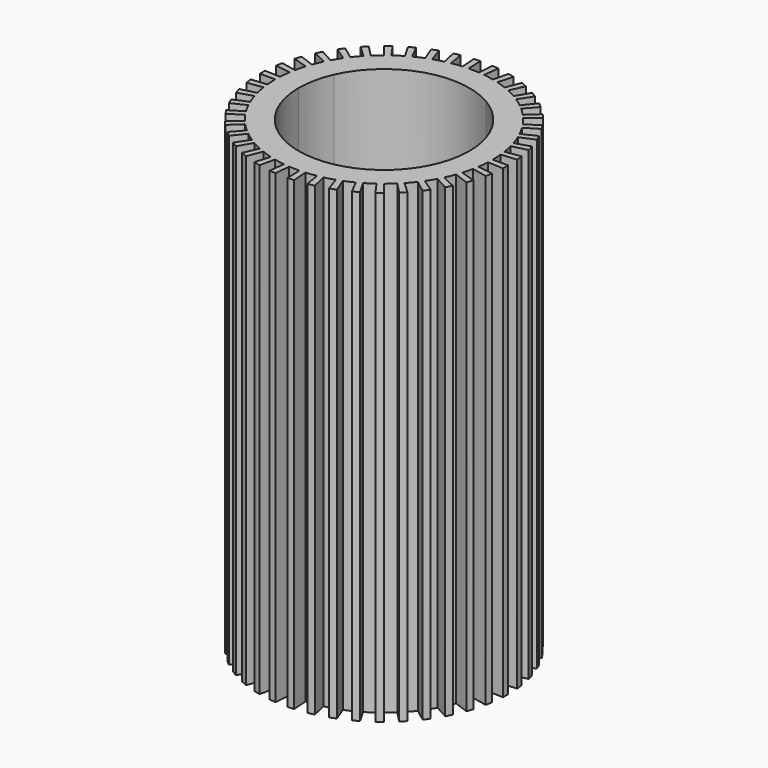
from build123d import *

# Parameters (mm, degrees)
F1_DEPTH = 1.5
F2_DEPTH = 30
F3_DEPTH = 10
F4_DEPTH = 10
F5_DEPTH = 1.5


with BuildPart() as f1:
    # F0 (on Top) → F1 (new body)
    with BuildSketch(Plane.XY):
        with BuildLine():
            ThreePointArc((-5.5, 0), (-3.680218, -4.087297), (0.574907, -5.46987))
            Line((0.574907, -5.46987), (0.313585, -2.983566))
            ThreePointArc((0.313585, -2.983566), (-2.007392, -2.229434), (-3, 0))
            Line((-3, 0), (-5.5, 0))
        make_face()
        with BuildLine():
            Line((-2.740636, 1.22021), (-5.0245, 2.237052))
            ThreePointArc((-5.0245, 2.237052), (-5.379812, 1.143514), (-5.5, 0))
            Line((-5.5, 0), (-3, 0))
            ThreePointArc((-3, 0), (-2.934443, 0.623735), (-2.740636, 1.22021))
        make_face()
        with BuildLine():
            Line((1.5, 2.598076), (2.75, 4.76314))
            ThreePointArc((2.75, 4.76314), (-1.699593, 5.230811), (-5.0245, 2.237052))
            Line((-5.0245, 2.237052), (-2.740636, 1.22021))
            ThreePointArc((-2.740636, 1.22021), (-0.927051, 2.85317), (1.5, 2.598076))
        make_face()
        with BuildLine():
            Line((2.427051, 1.763356), (4.449593, 3.232819))
            ThreePointArc((4.449593, 3.232819), (3.680218, 4.087297), (2.75, 4.76314))
            Line((2.75, 4.76314), (1.5, 2.598076))
            ThreePointArc((1.5, 2.598076), (2.007392, 2.229434), (2.427051, 1.763356))
        make_face()
        with BuildLine():
            ThreePointArc((2.75, -4.76314), (4.76314, -2.75), (5.5, 0))
            ThreePointArc((5.5, 0), (5.230811, 1.699593), (4.449593, 3.232819))
            Line((4.449593, 3.232819), (2.427051, 1.763356))
            ThreePointArc((2.427051, 1.763356), (2.85317, 0.927051), (3, 0))
            ThreePointArc((3, 0), (2.598076, -1.5), (1.5, -2.598076))
            Line((1.5, -2.598076), (2.75, -4.76314))
        make_face()
        with BuildLine():
            ThreePointArc((0.574907, -5.46987), (1.699593, -5.230811), (2.75, -4.76314))
            Line((2.75, -4.76314), (1.5, -2.598076))
            ThreePointArc((1.5, -2.598076), (0.927051, -2.85317), (0.313585, -2.983566))
            Line((0.313585, -2.983566), (0.574907, -5.46987))
        make_face()
    extrude(amount=F1_DEPTH)

    # F0 (on Top) → F2 (join)
    with BuildSketch(Plane.XY):
        with BuildLine():
            ThreePointArc((6.990407, -0.366352), (6.997601, -0.183239), (7, 0))
            ThreePointArc((7, 0), (6.991728, 0.340205), (6.966932, 0.679606))
            ThreePointArc((6.966932, 0.679606), (6.946754, 0.861746), (6.921816, 1.043296))
            ThreePointArc((6.921816, 1.043296), (6.862931, 1.378468), (6.787827, 1.710383))
            ThreePointArc((6.787827, 1.710383), (6.740728, 1.887481), (6.68901, 2.063286))
            ThreePointArc((6.68901, 2.063286), (6.580828, 2.385939), (6.457093, 2.702952))
            ThreePointArc((6.457093, 2.702952), (6.384125, 2.871053), (6.306782, 3.037186))
            ThreePointArc((6.306782, 3.037186), (6.15172, 3.340111), (5.982118, 3.635142))
            ThreePointArc((5.982118, 3.635142), (5.884912, 3.79049), (5.783671, 3.94324))
            ThreePointArc((5.783671, 3.94324), (5.585192, 4.219671), (5.373513, 4.486129))
            ThreePointArc((5.373513, 4.486129), (5.254239, 4.625254), (5.131363, 4.761209))
            ThreePointArc((5.131363, 4.761209), (4.893901, 5.004971), (4.644873, 5.236904))
            ThreePointArc((4.644873, 5.236904), (4.506195, 5.356698), (4.364429, 5.47282))
            ThreePointArc((4.364429, 5.47282), (4.093288, 5.678468), (3.812473, 5.870694))
            ThreePointArc((3.812473, 5.870694), (3.65749, 5.968481), (3.5, 6.062178))
            ThreePointArc((3.5, 6.062178), (3.201238, 6.225117), (2.89491, 6.373343))
            ThreePointArc((2.89491, 6.373343), (2.727083, 6.446939), (2.557387, 6.516116))
            ThreePointArc((2.557387, 6.516116), (2.237677, 6.632707), (1.912678, 6.733622))
            ThreePointArc((1.912678, 6.733622), (1.735757, 6.781382), (1.557647, 6.824495))
            ThreePointArc((1.557647, 6.824495), (1.22413, 6.892134), (0.887721, 6.943483))
            ThreePointArc((0.887721, 6.943483), (0.705658, 6.964341), (0.523111, 6.980427))
            ThreePointArc((0.523111, 6.980427), (0.183239, 6.997601), (-0.157066, 6.998238))
            ThreePointArc((-0.157066, 6.998238), (-0.340205, 6.991728), (-0.523111, 6.980427))
            ThreePointArc((-0.523111, 6.980427), (-0.861746, 6.946754), (-1.198345, 6.896664))
            ThreePointArc((-1.198345, 6.896664), (-1.378468, 6.862931), (-1.557647, 6.824495))
            ThreePointArc((-1.557647, 6.824495), (-1.887481, 6.740728), (-2.212855, 6.641029))
            ThreePointArc((-2.212855, 6.641029), (-2.385939, 6.580828), (-2.557387, 6.516116))
            ThreePointArc((-2.557387, 6.516116), (-2.871053, 6.384125), (-3.177933, 6.237046))
            ThreePointArc((-3.177933, 6.237046), (-3.340111, 6.15172), (-3.5, 6.062178))
            ThreePointArc((-3.5, 6.062178), (-3.79049, 5.884912), (-4.072022, 5.693737))
            ThreePointArc((-4.072022, 5.693737), (-4.219671, 5.585192), (-4.364429, 5.47282))
            ThreePointArc((-4.364429, 5.47282), (-4.625254, 5.254239), (-4.875148, 5.023239))
            ThreePointArc((-4.875148, 5.023239), (-5.004971, 4.893901), (-5.131363, 4.761209))
            ThreePointArc((-5.131363, 4.761209), (-5.356698, 4.506195), (-5.569372, 4.24053))
            ThreePointArc((-5.569372, 4.24053), (-5.678468, 4.093288), (-5.783671, 3.94324))
            ThreePointArc((-5.783671, 3.94324), (-5.968481, 3.65749), (-6.139185, 3.363095))
            ThreePointArc((-6.139185, 3.363095), (-6.225117, 3.201238), (-6.306782, 3.037186))
            ThreePointArc((-6.306782, 3.037186), (-6.446939, 2.727083), (-6.571859, 2.410534))
            ThreePointArc((-6.571859, 2.410534), (-6.632707, 2.237677), (-6.68901, 2.063286))
            ThreePointArc((-6.68901, 2.063286), (-6.781382, 1.735757), (-6.857728, 1.404126))
            ThreePointArc((-6.857728, 1.404126), (-6.892134, 1.22413), (-6.921816, 1.043296))
            ThreePointArc((-6.921816, 1.043296), (-6.964341, 0.705658), (-6.990407, 0.366352))
            ThreePointArc((-6.990407, 0.366352), (-6.997601, 0.183239), (-7, 0))
            ThreePointArc((-7, 0), (-6.991728, -0.340205), (-6.966932, -0.679606))
            ThreePointArc((-6.966932, -0.679606), (-6.946754, -0.861746), (-6.921816, -1.043296))
            ThreePointArc((-6.921816, -1.043296), (-6.862931, -1.378468), (-6.787827, -1.710383))
            ThreePointArc((-6.787827, -1.710383), (-6.740728, -1.887481), (-6.68901, -2.063286))
            ThreePointArc((-6.68901, -2.063286), (-6.580828, -2.385939), (-6.457093, -2.702952))
            ThreePointArc((-6.457093, -2.702952), (-6.384125, -2.871053), (-6.306782, -3.037186))
            ThreePointArc((-6.306782, -3.037186), (-6.15172, -3.340111), (-5.982118, -3.635142))
            ThreePointArc((-5.982118, -3.635142), (-5.884912, -3.79049), (-5.783671, -3.94324))
            ThreePointArc((-5.783671, -3.94324), (-5.585192, -4.219671), (-5.373513, -4.486129))
            ThreePointArc((-5.373513, -4.486129), (-5.254239, -4.625254), (-5.131363, -4.761209))
            ThreePointArc((-5.131363, -4.761209), (-4.893901, -5.004971), (-4.644873, -5.236904))
            ThreePointArc((-4.644873, -5.236904), (-4.506195, -5.356698), (-4.364429, -5.47282))
            ThreePointArc((-4.364429, -5.47282), (-4.093288, -5.678468), (-3.812473, -5.870694))
            ThreePointArc((-3.812473, -5.870694), (-3.65749, -5.968481), (-3.5, -6.062178))
            ThreePointArc((-3.5, -6.062178), (-3.201238, -6.225117), (-2.89491, -6.373343))
            ThreePointArc((-2.89491, -6.373343), (-2.727083, -6.446939), (-2.557387, -6.516116))
            ThreePointArc((-2.557387, -6.516116), (-2.237677, -6.632707), (-1.912678, -6.733622))
            ThreePointArc((-1.912678, -6.733622), (-1.735757, -6.781382), (-1.557647, -6.824495))
            ThreePointArc((-1.557647, -6.824495), (-1.22413, -6.892134), (-0.887721, -6.943483))
            ThreePointArc((-0.887721, -6.943483), (-0.705658, -6.964341), (-0.523111, -6.980427))
            ThreePointArc((-0.523111, -6.980427), (-0.183239, -6.997601), (0.157066, -6.998238))
            ThreePointArc((0.157066, -6.998238), (0.340205, -6.991728), (0.523111, -6.980427))
            ThreePointArc((0.523111, -6.980427), (0.861746, -6.946754), (1.198345, -6.896664))
            ThreePointArc((1.198345, -6.896664), (1.378468, -6.862931), (1.557647, -6.824495))
            ThreePointArc((1.557647, -6.824495), (1.887481, -6.740728), (2.212855, -6.641029))
            ThreePointArc((2.212855, -6.641029), (2.385939, -6.580828), (2.557387, -6.516116))
            ThreePointArc((2.557387, -6.516116), (2.871053, -6.384125), (3.177933, -6.237046))
            ThreePointArc((3.177933, -6.237046), (3.340111, -6.15172), (3.5, -6.062178))
            ThreePointArc((3.5, -6.062178), (3.79049, -5.884912), (4.072022, -5.693737))
            ThreePointArc((4.072022, -5.693737), (4.219671, -5.585192), (4.364429, -5.47282))
            ThreePointArc((4.364429, -5.47282), (4.625254, -5.254239), (4.875148, -5.023239))
            ThreePointArc((4.875148, -5.023239), (5.004971, -4.893901), (5.131363, -4.761209))
            ThreePointArc((5.131363, -4.761209), (5.356698, -4.506195), (5.569372, -4.24053))
            ThreePointArc((5.569372, -4.24053), (5.678468, -4.093288), (5.783671, -3.94324))
            ThreePointArc((5.783671, -3.94324), (5.968481, -3.65749), (6.139185, -3.363095))
            ThreePointArc((6.139185, -3.363095), (6.225117, -3.201238), (6.306782, -3.037186))
            ThreePointArc((6.306782, -3.037186), (6.446939, -2.727083), (6.571859, -2.410534))
            ThreePointArc((6.571859, -2.410534), (6.632707, -2.237677), (6.68901, -2.063286))
            ThreePointArc((6.68901, -2.063286), (6.781382, -1.735757), (6.857728, -1.404126))
            ThreePointArc((6.857728, -1.404126), (6.892134, -1.22413), (6.921816, -1.043296))
            ThreePointArc((6.921816, -1.043296), (6.964341, -0.705658), (6.990407, -0.366352))
        make_face()
        with BuildLine():
            ThreePointArc((4.449593, 3.232819), (5.230811, 1.699593), (5.5, 0))
            ThreePointArc((5.5, 0), (4.76314, -2.75), (2.75, -4.76314))
            ThreePointArc((2.75, -4.76314), (1.699593, -5.230811), (0.574907, -5.46987))
            ThreePointArc((0.574907, -5.46987), (-3.680218, -4.087297), (-5.5, 0))
            ThreePointArc((-5.5, 0), (-5.379812, 1.143514), (-5.0245, 2.237052))
            ThreePointArc((-5.0245, 2.237052), (-1.699593, 5.230811), (2.75, 4.76314))
            ThreePointArc((2.75, 4.76314), (3.680218, 4.087297), (4.449593, 3.232819))
        make_face(mode=Mode.SUBTRACT)
        with BuildLine():
            ThreePointArc((-5.783671, 3.94324), (-5.678468, 4.093288), (-5.569372, 4.24053))
            Line((-5.569372, 4.24053), (-6.364996, 4.84632))
            ThreePointArc((-6.364996, 4.84632), (-6.489677, 4.678043), (-6.60991, 4.50656))
            Line((-6.60991, 4.50656), (-5.783671, 3.94324))
        make_face()
        with BuildLine():
            ThreePointArc((-5.131363, 4.761209), (-5.004971, 4.893901), (-4.875148, 5.023239))
            Line((-4.875148, 5.023239), (-5.571598, 5.740844))
            ThreePointArc((-5.571598, 5.740844), (-5.719967, 5.59303), (-5.864415, 5.441382))
            Line((-5.864415, 5.441382), (-5.131363, 4.761209))
        make_face()
        with BuildLine():
            ThreePointArc((-4.364429, 5.47282), (-4.219671, 5.585192), (-4.072022, 5.693737))
            Line((-4.072022, 5.693737), (-4.653739, 6.507128))
            ThreePointArc((-4.653739, 6.507128), (-4.822481, 6.383077), (-4.987918, 6.254652))
            Line((-4.987918, 6.254652), (-4.364429, 5.47282))
        make_face()
        with BuildLine():
            ThreePointArc((-3.5, 6.062178), (-3.340111, 6.15172), (-3.177933, 6.237046))
            Line((-3.177933, 6.237046), (-3.631924, 7.128052))
            ThreePointArc((-3.631924, 7.128052), (-3.81727, 7.030537), (-4, 6.928203))
            Line((-4, 6.928203), (-3.5, 6.062178))
        make_face()
        with BuildLine():
            ThreePointArc((-2.557387, 6.516116), (-2.385939, 6.580828), (-2.212855, 6.641029))
            Line((-2.212855, 6.641029), (-2.528977, 7.589748))
            ThreePointArc((-2.528977, 7.589748), (-2.726787, 7.520946), (-2.922728, 7.44699))
            Line((-2.922728, 7.44699), (-2.557387, 6.516116))
        make_face()
        with BuildLine():
            ThreePointArc((-1.557647, 6.824495), (-1.378468, 6.862931), (-1.198345, 6.896664))
            Line((-1.198345, 6.896664), (-1.369538, 7.881901))
            ThreePointArc((-1.369538, 7.881901), (-1.575392, 7.84335), (-1.780167, 7.799423))
            Line((-1.780167, 7.799423), (-1.557647, 6.824495))
        make_face()
        with BuildLine():
            ThreePointArc((-0.523111, 6.980427), (-0.340205, 6.991728), (-0.157066, 6.998238))
            Line((-0.157066, 6.998238), (-0.179505, 7.997986))
            ThreePointArc((-0.179505, 7.997986), (-0.388806, 7.990546), (-0.597841, 7.97763))
            Line((-0.597841, 7.97763), (-0.523111, 6.980427))
        make_face()
        with BuildLine():
            ThreePointArc((0.523111, 6.980427), (0.705658, 6.964341), (0.887721, 6.943483))
            Line((0.887721, 6.943483), (1.014538, 7.935409))
            ThreePointArc((1.014538, 7.935409), (0.806466, 7.959247), (0.597841, 7.97763))
            Line((0.597841, 7.97763), (0.523111, 6.980427))
        make_face()
        with BuildLine():
            ThreePointArc((1.557647, 6.824495), (1.735757, 6.781382), (1.912678, 6.733622))
            Line((1.912678, 6.733622), (2.185918, 7.695568))
            ThreePointArc((2.185918, 7.695568), (1.983723, 7.750151), (1.780167, 7.799423))
            Line((1.780167, 7.799423), (1.557647, 6.824495))
        make_face()
        with BuildLine():
            ThreePointArc((2.557387, 6.516116), (2.727083, 6.446939), (2.89491, 6.373343))
            Line((2.89491, 6.373343), (3.308468, 7.28382))
            ThreePointArc((3.308468, 7.28382), (3.116666, 7.36793), (2.922728, 7.44699))
            Line((2.922728, 7.44699), (2.557387, 6.516116))
        make_face()
        with BuildLine():
            ThreePointArc((3.5, 6.062178), (3.65749, 5.968481), (3.812473, 5.870694))
            Line((3.812473, 5.870694), (4.357112, 6.709365))
            ThreePointArc((4.357112, 6.709365), (4.179989, 6.821121), (4, 6.928203))
            Line((4, 6.928203), (3.5, 6.062178))
        make_face()
        with BuildLine():
            ThreePointArc((4.364429, 5.47282), (4.506195, 5.356698), (4.644873, 5.236904))
            Line((4.644873, 5.236904), (5.308426, 5.985033))
            ThreePointArc((5.308426, 5.985033), (5.149937, 6.12194), (4.987918, 6.254652))
            Line((4.987918, 6.254652), (4.364429, 5.47282))
        make_face()
        with BuildLine():
            ThreePointArc((5.131363, 4.761209), (5.254239, 4.625254), (5.373513, 4.486129))
            Line((5.373513, 4.486129), (6.141158, 5.127005))
            ThreePointArc((6.141158, 5.127005), (6.004844, 5.286005), (5.864415, 5.441382))
            Line((5.864415, 5.441382), (5.131363, 4.761209))
        make_face()
        with BuildLine():
            ThreePointArc((5.783671, 3.94324), (5.884912, 3.79049), (5.982118, 3.635142))
            Line((5.982118, 3.635142), (6.836707, 4.154448))
            ThreePointArc((6.836707, 4.154448), (6.725613, 4.331989), (6.60991, 4.50656))
            Line((6.60991, 4.50656), (5.783671, 3.94324))
        make_face()
        with BuildLine():
            ThreePointArc((6.306782, 3.037186), (6.384125, 2.871053), (6.457093, 2.702952))
            Line((6.457093, 2.702952), (7.379535, 3.089088))
            ThreePointArc((7.379535, 3.089088), (7.296143, 3.281204), (7.207751, 3.47107))
            Line((7.207751, 3.47107), (6.306782, 3.037186))
        make_face()
        with BuildLine():
            ThreePointArc((6.68901, 2.063286), (6.740728, 1.887481), (6.787827, 1.710383))
            Line((6.787827, 1.710383), (7.757516, 1.954723))
            ThreePointArc((7.757516, 1.954723), (7.703689, 2.157122), (7.644582, 2.358041))
            Line((7.644582, 2.358041), (6.68901, 2.063286))
        make_face()
        with BuildLine():
            ThreePointArc((6.921816, 1.043296), (6.946754, 0.861746), (6.966932, 0.679606))
            Line((6.966932, 0.679606), (7.962207, 0.776693))
            ThreePointArc((7.962207, 0.776693), (7.939148, 0.984853), (7.910647, 1.192338))
            Line((7.910647, 1.192338), (6.921816, 1.043296))
        make_face()
        with BuildLine():
            Line((8, 0), (7, 0))
            ThreePointArc((7, 0), (6.997601, -0.183239), (6.990407, -0.366352))
            Line((6.990407, -0.366352), (7.989036, -0.418688))
            ThreePointArc((7.989036, -0.418688), (7.997259, -0.209416), (8, 0))
        make_face()
        with BuildLine():
            Line((7.910647, -1.192338), (6.921816, -1.043296))
            ThreePointArc((6.921816, -1.043296), (6.892134, -1.22413), (6.857728, -1.404126))
            Line((6.857728, -1.404126), (7.837403, -1.604715))
            ThreePointArc((7.837403, -1.604715), (7.876724, -1.399006), (7.910647, -1.192338))
        make_face()
        with BuildLine():
            Line((7.644582, -2.358041), (6.68901, -2.063286))
            ThreePointArc((6.68901, -2.063286), (6.632707, -2.237677), (6.571859, -2.410534))
            Line((6.571859, -2.410534), (7.510695, -2.754896))
            ThreePointArc((7.510695, -2.754896), (7.580237, -2.557345), (7.644582, -2.358041))
        make_face()
        with BuildLine():
            Line((7.207751, -3.47107), (6.306782, -3.037186))
            ThreePointArc((6.306782, -3.037186), (6.225117, -3.201238), (6.139185, -3.363095))
            Line((6.139185, -3.363095), (7.016211, -3.843537))
            ThreePointArc((7.016211, -3.843537), (7.114419, -3.658557), (7.207751, -3.47107))
        make_face()
        with BuildLine():
            Line((6.60991, -4.50656), (5.783671, -3.94324))
            ThreePointArc((5.783671, -3.94324), (5.678468, -4.093288), (5.569372, -4.24053))
            Line((5.569372, -4.24053), (6.364996, -4.84632))
            ThreePointArc((6.364996, -4.84632), (6.489677, -4.678043), (6.60991, -4.50656))
        make_face()
        with BuildLine():
            Line((5.864415, -5.441382), (5.131363, -4.761209))
            ThreePointArc((5.131363, -4.761209), (5.004971, -4.893901), (4.875148, -5.023239))
            Line((4.875148, -5.023239), (5.571598, -5.740844))
            ThreePointArc((5.571598, -5.740844), (5.719967, -5.59303), (5.864415, -5.441382))
        make_face()
        with BuildLine():
            Line((4.987918, -6.254652), (4.364429, -5.47282))
            ThreePointArc((4.364429, -5.47282), (4.219671, -5.585192), (4.072022, -5.693737))
            Line((4.072022, -5.693737), (4.653739, -6.507128))
            ThreePointArc((4.653739, -6.507128), (4.822481, -6.383077), (4.987918, -6.254652))
        make_face()
        with BuildLine():
            Line((4, -6.928203), (3.5, -6.062178))
            ThreePointArc((3.5, -6.062178), (3.340111, -6.15172), (3.177933, -6.237046))
            Line((3.177933, -6.237046), (3.631924, -7.128052))
            ThreePointArc((3.631924, -7.128052), (3.81727, -7.030537), (4, -6.928203))
        make_face()
        with BuildLine():
            Line((2.922728, -7.44699), (2.557387, -6.516116))
            ThreePointArc((2.557387, -6.516116), (2.385939, -6.580828), (2.212855, -6.641029))
            Line((2.212855, -6.641029), (2.528977, -7.589748))
            ThreePointArc((2.528977, -7.589748), (2.726787, -7.520946), (2.922728, -7.44699))
        make_face()
        with BuildLine():
            Line((1.780167, -7.799423), (1.557647, -6.824495))
            ThreePointArc((1.557647, -6.824495), (1.378468, -6.862931), (1.198345, -6.896664))
            Line((1.198345, -6.896664), (1.369538, -7.881901))
            ThreePointArc((1.369538, -7.881901), (1.575392, -7.84335), (1.780167, -7.799423))
        make_face()
        with BuildLine():
            Line((0.597841, -7.97763), (0.523111, -6.980427))
            ThreePointArc((0.523111, -6.980427), (0.340205, -6.991728), (0.157066, -6.998238))
            Line((0.157066, -6.998238), (0.179505, -7.997986))
            ThreePointArc((0.179505, -7.997986), (0.388806, -7.990546), (0.597841, -7.97763))
        make_face()
        with BuildLine():
            Line((-0.597841, -7.97763), (-0.523111, -6.980427))
            ThreePointArc((-0.523111, -6.980427), (-0.705658, -6.964341), (-0.887721, -6.943483))
            Line((-0.887721, -6.943483), (-1.014538, -7.935409))
            ThreePointArc((-1.014538, -7.935409), (-0.806466, -7.959247), (-0.597841, -7.97763))
        make_face()
        with BuildLine():
            Line((-1.780167, -7.799423), (-1.557647, -6.824495))
            ThreePointArc((-1.557647, -6.824495), (-1.735757, -6.781382), (-1.912678, -6.733622))
            Line((-1.912678, -6.733622), (-2.185918, -7.695568))
            ThreePointArc((-2.185918, -7.695568), (-1.983723, -7.750151), (-1.780167, -7.799423))
        make_face()
        with BuildLine():
            Line((-2.922728, -7.44699), (-2.557387, -6.516116))
            ThreePointArc((-2.557387, -6.516116), (-2.727083, -6.446939), (-2.89491, -6.373343))
            Line((-2.89491, -6.373343), (-3.308468, -7.28382))
            ThreePointArc((-3.308468, -7.28382), (-3.116666, -7.36793), (-2.922728, -7.44699))
        make_face()
        with BuildLine():
            Line((-4, -6.928203), (-3.5, -6.062178))
            ThreePointArc((-3.5, -6.062178), (-3.65749, -5.968481), (-3.812473, -5.870694))
            Line((-3.812473, -5.870694), (-4.357112, -6.709365))
            ThreePointArc((-4.357112, -6.709365), (-4.179989, -6.821121), (-4, -6.928203))
        make_face()
        with BuildLine():
            Line((-4.987918, -6.254652), (-4.364429, -5.47282))
            ThreePointArc((-4.364429, -5.47282), (-4.506195, -5.356698), (-4.644873, -5.236904))
            Line((-4.644873, -5.236904), (-5.308426, -5.985033))
            ThreePointArc((-5.308426, -5.985033), (-5.149937, -6.12194), (-4.987918, -6.254652))
        make_face()
        with BuildLine():
            Line((-5.864415, -5.441382), (-5.131363, -4.761209))
            ThreePointArc((-5.131363, -4.761209), (-5.254239, -4.625254), (-5.373513, -4.486129))
            Line((-5.373513, -4.486129), (-6.141158, -5.127005))
            ThreePointArc((-6.141158, -5.127005), (-6.004844, -5.286005), (-5.864415, -5.441382))
        make_face()
        with BuildLine():
            Line((-6.60991, -4.50656), (-5.783671, -3.94324))
            ThreePointArc((-5.783671, -3.94324), (-5.884912, -3.79049), (-5.982118, -3.635142))
            Line((-5.982118, -3.635142), (-6.836707, -4.154448))
            ThreePointArc((-6.836707, -4.154448), (-6.725613, -4.331989), (-6.60991, -4.50656))
        make_face()
        with BuildLine():
            Line((-7.207751, -3.47107), (-6.306782, -3.037186))
            ThreePointArc((-6.306782, -3.037186), (-6.384125, -2.871053), (-6.457093, -2.702952))
            Line((-6.457093, -2.702952), (-7.379535, -3.089088))
            ThreePointArc((-7.379535, -3.089088), (-7.296143, -3.281204), (-7.207751, -3.47107))
        make_face()
        with BuildLine():
            Line((-7.644582, -2.358041), (-6.68901, -2.063286))
            ThreePointArc((-6.68901, -2.063286), (-6.740728, -1.887481), (-6.787827, -1.710383))
            Line((-6.787827, -1.710383), (-7.757516, -1.954723))
            ThreePointArc((-7.757516, -1.954723), (-7.703689, -2.157122), (-7.644582, -2.358041))
        make_face()
        with BuildLine():
            Line((-7.910647, -1.192338), (-6.921816, -1.043296))
            ThreePointArc((-6.921816, -1.043296), (-6.946754, -0.861746), (-6.966932, -0.679606))
            Line((-6.966932, -0.679606), (-7.962207, -0.776693))
            ThreePointArc((-7.962207, -0.776693), (-7.939148, -0.984853), (-7.910647, -1.192338))
        make_face()
        with BuildLine():
            ThreePointArc((-7, 0), (-6.997601, 0.183239), (-6.990407, 0.366352))
            Line((-6.990407, 0.366352), (-7.989036, 0.418688))
            ThreePointArc((-7.989036, 0.418688), (-7.997259, 0.209416), (-8, 0))
            Line((-8, 0), (-7, 0))
        make_face()
        with BuildLine():
            ThreePointArc((-6.921816, 1.043296), (-6.892134, 1.22413), (-6.857728, 1.404126))
            Line((-6.857728, 1.404126), (-7.837403, 1.604715))
            ThreePointArc((-7.837403, 1.604715), (-7.876724, 1.399006), (-7.910647, 1.192338))
            Line((-7.910647, 1.192338), (-6.921816, 1.043296))
        make_face()
        with BuildLine():
            ThreePointArc((-6.68901, 2.063286), (-6.632707, 2.237677), (-6.571859, 2.410534))
            Line((-6.571859, 2.410534), (-7.510695, 2.754896))
            ThreePointArc((-7.510695, 2.754896), (-7.580237, 2.557345), (-7.644582, 2.358041))
            Line((-7.644582, 2.358041), (-6.68901, 2.063286))
        make_face()
        with BuildLine():
            ThreePointArc((-6.306782, 3.037186), (-6.225117, 3.201238), (-6.139185, 3.363095))
            Line((-6.139185, 3.363095), (-7.016211, 3.843537))
            ThreePointArc((-7.016211, 3.843537), (-7.114419, 3.658557), (-7.207751, 3.47107))
            Line((-7.207751, 3.47107), (-6.306782, 3.037186))
        make_face()
    extrude(amount=F2_DEPTH)

    # F0 (on Top) → F4 (join)
    with BuildSketch(Plane.XY):
        with BuildLine():
            Line((-2.740636, 1.22021), (-5.0245, 2.237052))
            ThreePointArc((-5.0245, 2.237052), (-5.379812, 1.143514), (-5.5, 0))
            Line((-5.5, 0), (-3, 0))
            ThreePointArc((-3, 0), (-2.934443, 0.623735), (-2.740636, 1.22021))
        make_face()
        with BuildLine():
            Line((2.427051, 1.763356), (4.449593, 3.232819))
            ThreePointArc((4.449593, 3.232819), (3.680218, 4.087297), (2.75, 4.76314))
            Line((2.75, 4.76314), (1.5, 2.598076))
            ThreePointArc((1.5, 2.598076), (2.007392, 2.229434), (2.427051, 1.763356))
        make_face()
        with BuildLine():
            ThreePointArc((0.574907, -5.46987), (1.699593, -5.230811), (2.75, -4.76314))
            Line((2.75, -4.76314), (1.5, -2.598076))
            ThreePointArc((1.5, -2.598076), (0.927051, -2.85317), (0.313585, -2.983566))
            Line((0.313585, -2.983566), (0.574907, -5.46987))
        make_face()
    extrude(amount=F4_DEPTH)

    # F0 (on Top) → F5 (cut)
    with BuildSketch(Plane.XY):
        with BuildLine():
            ThreePointArc((2.75, -4.76314), (4.76314, -2.75), (5.5, 0))
            ThreePointArc((5.5, 0), (5.230811, 1.699593), (4.449593, 3.232819))
            Line((4.449593, 3.232819), (2.427051, 1.763356))
            ThreePointArc((2.427051, 1.763356), (2.85317, 0.927051), (3, 0))
            ThreePointArc((3, 0), (2.598076, -1.5), (1.5, -2.598076))
            Line((1.5, -2.598076), (2.75, -4.76314))
        make_face()
        with BuildLine():
            ThreePointArc((-5.5, 0), (-3.680218, -4.087297), (0.574907, -5.46987))
            Line((0.574907, -5.46987), (0.313585, -2.983566))
            ThreePointArc((0.313585, -2.983566), (-2.007392, -2.229434), (-3, 0))
            Line((-3, 0), (-5.5, 0))
        make_face()
        with BuildLine():
            Line((1.5, 2.598076), (2.75, 4.76314))
            ThreePointArc((2.75, 4.76314), (-1.699593, 5.230811), (-5.0245, 2.237052))
            Line((-5.0245, 2.237052), (-2.740636, 1.22021))
            ThreePointArc((-2.740636, 1.22021), (-0.927051, 2.85317), (1.5, 2.598076))
        make_face()
    extrude(amount=F5_DEPTH, mode=Mode.SUBTRACT)


with BuildPart() as f3:
    # F0 (on Top) → F3 (new body)
    with BuildSketch(Plane.XY):
        with BuildLine():
            ThreePointArc((-0.883085, 1.794481), (-1.056842, -1.697965), (2, 0))
            ThreePointArc((2, 0), (1.697965, 1.056842), (0.883085, 1.794481))
            Line((0.883085, 1.794481), (-0.883085, 1.794481))
        make_face()
        with BuildLine():
            ThreePointArc((1.118034, 1), (0, -1.5), (-1.118034, 1))
            Line((-1.118034, 1), (1.118034, 1))
        make_face(mode=Mode.SUBTRACT)
    extrude(amount=F3_DEPTH)


solid = Compound([f1.part, f3.part])
